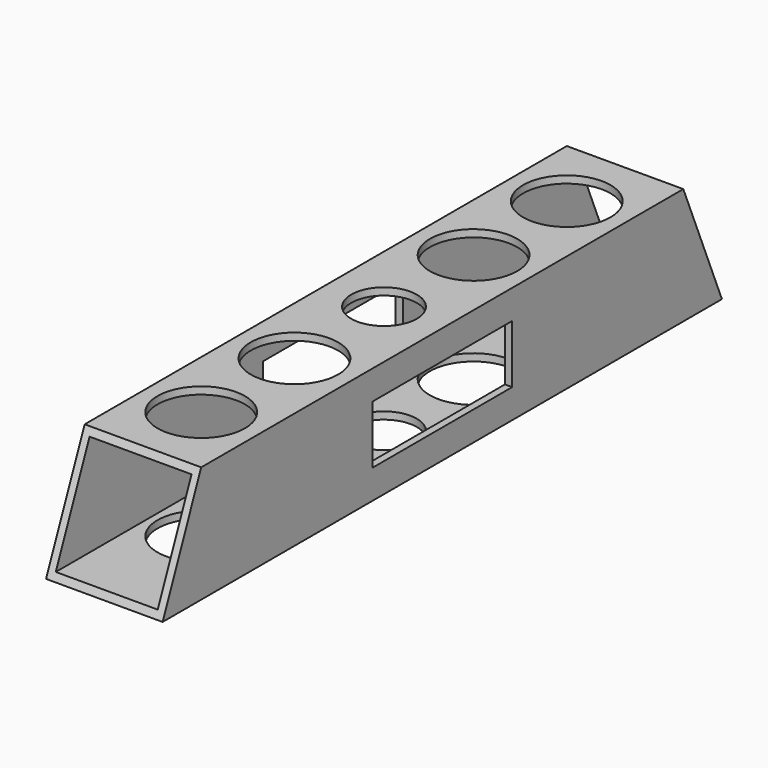
from build123d import *

# Parameters (mm, degrees)
F1_W      = 50.8
F1_H      = 50.8
F1_W_2    = 44.45
F1_H_2    = 44.45
F2_DEPTH  = 304.8
F4_DEPTH  = 50.801
F6_DEPTH  = 127
F7_R      = 14.2875
F8_DEPTH  = 50.801
F9_W      = 76.2
F9_H      = 25.4
F10_DEPTH = 50.801
F11_R     = 19.05
F12_DEPTH = 50.8


with BuildPart() as f2:
    # F1 (on face) → F2 (new body)
    with BuildSketch(Plane.XZ):
        Rectangle(F1_W, F1_H)
        Rectangle(F1_W_2, F1_H_2, mode=Mode.SUBTRACT)
    extrude(amount=F2_DEPTH)

    # F3 (on face) → F4 (cut, through all)
    with BuildSketch(Plane.YZ.offset(25.4)):
        Polygon((-283.757951, 25.4), (-304.8, 25.4), (-304.8, -25.4), align=None)
    extrude(amount=-F4_DEPTH, mode=Mode.SUBTRACT)

    # F5 (on face) → F6 (cut)
    with BuildSketch(Plane.YZ.offset(25.4)):
        Polygon((0, -25.4), (0, 25.4), (-21.042049, 25.4), align=None)
    extrude(amount=-F6_DEPTH, mode=Mode.SUBTRACT)

    # F7 (on face) → F8 (cut, through all)
    with BuildSketch(Plane.XY.offset(25.4)):
        with Locations((0, -152.4)):
            Circle(F7_R)
    extrude(amount=-F8_DEPTH, mode=Mode.SUBTRACT)

    # F9 (on face) → F10 (cut, through all)
    with BuildSketch(Plane(origin=(-25.4, 0, 0), x_dir=(0, -1, 0), z_dir=(-1, 0, 0))):
        with Locations((152.4, 0)):
            Rectangle(F9_W, F9_H)
    extrude(amount=-F10_DEPTH, mode=Mode.SUBTRACT)

    # F11 (on face) → F12 (cut)
    with BuildSketch(Plane.XY.offset(25.4)):
        with Locations((0, -252.007951)):
            Circle(F11_R)
        with Locations((0, -201.207951)):
            Circle(F11_R)
        with Locations((0, -103.592049)):
            Circle(F11_R)
        with Locations((0, -52.792049)):
            Circle(F11_R)
    extrude(amount=-F12_DEPTH, mode=Mode.SUBTRACT)


solid = f2.part
